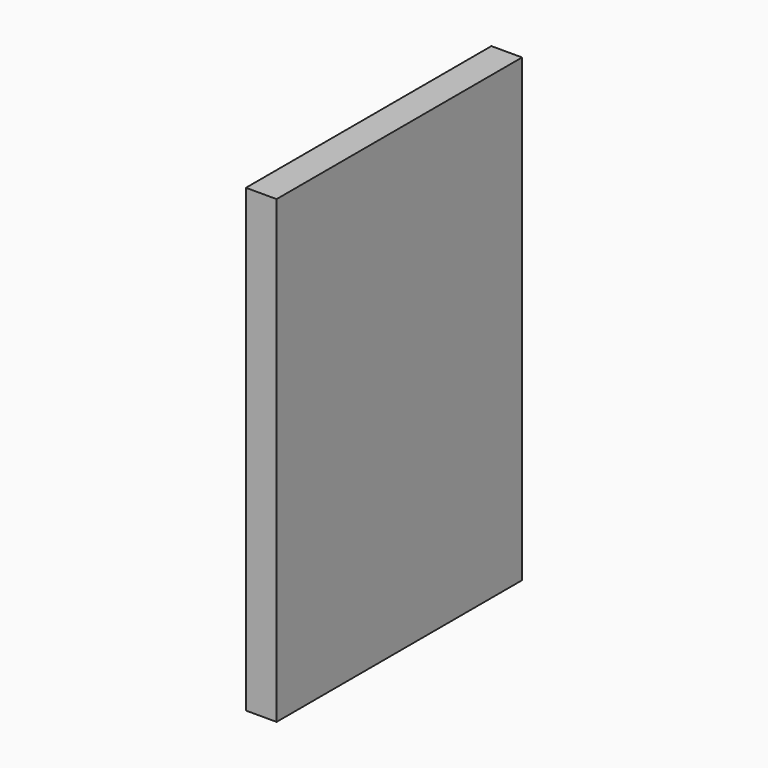
from build123d import *

# Parameters (mm, degrees)
SKETCH_W  = 1
SKETCH_H  = 10
PAD_DEPTH = 15


with BuildPart() as part:
    # Sketch → Pad (new body)
    with BuildSketch(Plane.XY):
        Rectangle(SKETCH_W, SKETCH_H)
    extrude(amount=PAD_DEPTH)


solid = part.part
